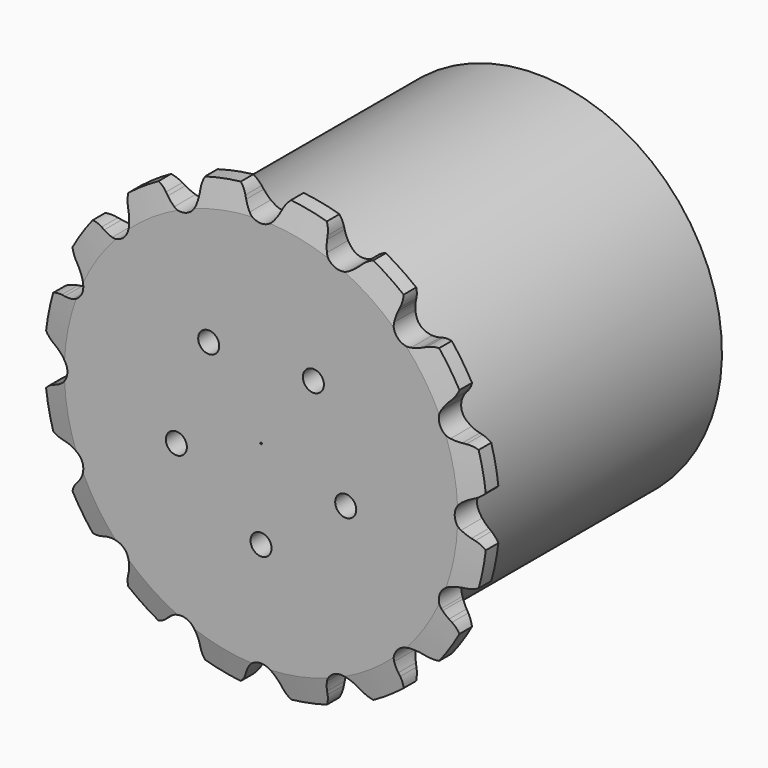
from build123d import *

# Parameters (mm, degrees)
F0_W     = 56.2864
F0_H     = 41.0616607141
F0_W_2   = 7.2136
F0_W_3   = 81.8417824248
F0_H_2   = 4.8172026873
F2_R     = 1.5875
F3_SIZE  = 0.79375
F4_SIZE2 = 6.35
F4_SIZE  = 1.5748
F6_DEPTH = 89.0563824248
F7_R     = 2.7171678614
F8_DEPTH = 25.4


with BuildPart() as f1:
    # F0 (on Right) → F1 (revolve)
    with BuildSketch(Plane.YZ):
        with Locations((13.0365436533, -20.744169643)):
            Rectangle(F0_W, F0_H)
        Polygon((-15.1066563467, -41.275), (-22.3202563467, -41.275), (-22.3202563467, -57.15), (-15.1066563467, -57.15), (-15.1066563467, -47.7999337018), (-15.1066563467, -42.9827310145), align=None)
        with Locations((-18.7134563467, -20.744169643)):
            Rectangle(F0_W_2, F0_H)
        with Locations((25.8142348657, -45.3913323581)):
            Rectangle(F0_W_3, F0_H_2)
    revolve(axis=Axis((0, 2.5358337058, 0), (0, -1, 0)))

    # F2
    f2_edges = [f1.edges().sort_by_distance(p)[0] for p in [
        (0, -15.106656, 41.275),
    ]]
    fillet(f2_edges, radius=F2_R)

    # F3
    f3_edges = [f1.edges().sort_by_distance(p)[0] for p in [
        (0, 41.179744, 41.275),
    ]]
    chamfer(f3_edges, length=F3_SIZE)

    # F4
    f4_edges = [f1.edges().sort_by_distance(p)[0] for p in [
        (0, -15.106656, 57.15),
        (0, -22.320256, 57.15),
    ]]
    f4_side = f1.faces().sort_by_distance((0, -18.713456, 57.15))[0]
    chamfer(f4_edges, length=F4_SIZE, length2=F4_SIZE2, reference=f4_side)

    # F5 (on face) → F6 (intersect, through all)
    with BuildSketch(Plane.XZ.offset(22.3202563467)):
        with BuildLine():
            Line((-4.4568878106, 53.7250493474), (-4.8164154778, 54.5231711732))
            ThreePointArc((-4.8164154778, 54.5231711732), (-7.5838308173, 57.5547145164), (-11.6086612792, 58.3606812994))
            ThreePointArc((-11.6086612792, 58.3606812994), (-15.0186896298, 56.0758291488), (-16.415326608, 52.2160043013))
            Line((-16.415326608, 52.2160043013), (-16.4420588613, 51.3410506002))
            ThreePointArc((-16.4420588613, 51.3410506002), (-16.5648135586, 50.0363656722), (-16.8512367189, 48.7576032821))
            ThreePointArc((-16.8512367189, 48.7576032821), (-19.1389934295, 46.2056175077), (-22.5612081599, 46.3924556705))
            ThreePointArc((-22.5612081599, 46.3924556705), (-23.6679614764, 47.0941454691), (-24.6773137152, 47.9298963501))
            Line((-24.6773137152, 47.9298963501), (-25.314901968, 48.5296794878))
            ThreePointArc((-25.314901968, 48.5296794878), (-29.03178177, 50.2714163336), (-33.0586703905, 49.4757966124))
            ThreePointArc((-33.0586703905, 49.4757966124), (-35.3347507255, 46.059907122), (-35.147984023, 41.9594241138))
            Line((-35.147984023, 41.9594241138), (-34.8378511192, 41.140842307))
            ThreePointArc((-34.8378511192, 41.140842307), (-34.4519803652, 39.8884944167), (-34.22723968, 38.5974626195))
            ThreePointArc((-34.22723968, 38.5974626195), (-35.3642486048, 35.3642486048), (-38.5974626195, 34.22723968))
            ThreePointArc((-38.5974626195, 34.22723968), (-39.8884944167, 34.4519803652), (-41.140842307, 34.8378511192))
            Line((-41.140842307, 34.8378511192), (-41.9594241138, 35.147984023))
            ThreePointArc((-41.9594241138, 35.147984023), (-46.059907122, 35.3347507255), (-49.4757966124, 33.0586703905))
            ThreePointArc((-49.4757966124, 33.0586703905), (-50.2714163336, 29.03178177), (-48.5296794878, 25.314901968))
            Line((-48.5296794878, 25.314901968), (-47.9298963501, 24.6773137152))
            ThreePointArc((-47.9298963501, 24.6773137152), (-47.0941454691, 23.6679614764), (-46.3924556705, 22.5612081599))
            ThreePointArc((-46.3924556705, 22.5612081599), (-46.2056175077, 19.1389934295), (-48.7576032821, 16.8512367189))
            ThreePointArc((-48.7576032821, 16.8512367189), (-50.0363656722, 16.5648135586), (-51.3410506002, 16.4420588613))
            Line((-51.3410506002, 16.4420588613), (-52.2160043013, 16.415326608))
            ThreePointArc((-52.2160043013, 16.415326608), (-56.0758291488, 15.0186896298), (-58.3606812994, 11.6086612792))
            ThreePointArc((-58.3606812994, 11.6086612792), (-57.5547145164, 7.5838308173), (-54.5231711732, 4.8164154778))
            Line((-54.5231711732, 4.8164154778), (-53.7250493474, 4.4568878106))
            ThreePointArc((-53.7250493474, 4.4568878106), (-52.5666538349, 3.8441959519), (-51.4948408338, 3.0902142758))
            ThreePointArc((-51.4948408338, 3.0902142758), (-50.0126, 0), (-51.4948408338, -3.0902142758))
            ThreePointArc((-51.4948408338, -3.0902142758), (-52.5666538349, -3.8441959519), (-53.7250493474, -4.4568878106))
            Line((-53.7250493474, -4.4568878106), (-54.5231711732, -4.8164154778))
            ThreePointArc((-54.5231711732, -4.8164154778), (-57.5547145164, -7.5838308173), (-58.3606812994, -11.6086612792))
            ThreePointArc((-58.3606812994, -11.6086612792), (-56.0758291488, -15.0186896298), (-52.2160043013, -16.415326608))
            Line((-52.2160043013, -16.415326608), (-51.3410506002, -16.4420588613))
            ThreePointArc((-51.3410506002, -16.4420588613), (-50.0363656722, -16.5648135586), (-48.7576032821, -16.8512367189))
            ThreePointArc((-48.7576032821, -16.8512367189), (-46.2056175077, -19.1389934295), (-46.3924556705, -22.5612081599))
            ThreePointArc((-46.3924556705, -22.5612081599), (-46.5188828863, -22.7850262678), (-46.6508225459, -23.0056397591))
            ThreePointArc((-46.6508225459, -23.0056397591), (-46.5184741072, -23.0201940606), (-46.3863235817, -23.0364475373))
            Line((-46.3863235817, -23.0364475373), (-47.9298963501, -24.6773137152))
            Line((-47.9298963501, -24.6773137152), (-48.5296794878, -25.314901968))
            ThreePointArc((-48.5296794878, -25.314901968), (-50.2714163336, -29.03178177), (-49.4757966124, -33.0586703905))
            ThreePointArc((-49.4757966124, -33.0586703905), (-47.9461323111, -34.4716679644), (-46.0520008655, -35.3369431146))
            ThreePointArc((-46.0520008655, -35.3369431146), (-43.9906584062, -35.568512935), (-41.9594241138, -35.147984023))
            Line((-41.9594241138, -35.147984023), (-41.140842307, -34.8378511192))
            ThreePointArc((-41.140842307, -34.8378511192), (-39.8884944167, -34.4519803652), (-38.5974626195, -34.22723968))
            ThreePointArc((-38.5974626195, -34.22723968), (-35.3642486048, -35.3642486048), (-34.22723968, -38.5974626195))
            ThreePointArc((-34.22723968, -38.5974626195), (-34.4519803652, -39.8884944167), (-34.8378511192, -41.140842307))
            Line((-34.8378511192, -41.140842307), (-35.147984023, -41.9594241138))
            ThreePointArc((-35.147984023, -41.9594241138), (-35.3347507255, -46.059907122), (-33.0586703905, -49.4757966124))
            ThreePointArc((-33.0586703905, -49.4757966124), (-29.03178177, -50.2714163336), (-25.314901968, -48.5296794878))
            Line((-25.314901968, -48.5296794878), (-24.6773137152, -47.9298963501))
            ThreePointArc((-24.6773137152, -47.9298963501), (-23.6679614764, -47.0941454691), (-22.5612081599, -46.3924556705))
            ThreePointArc((-22.5612081599, -46.3924556705), (-19.1389934295, -46.2056175077), (-16.8512367189, -48.7576032821))
            ThreePointArc((-16.8512367189, -48.7576032821), (-16.5648135586, -50.0363656722), (-16.4420588613, -51.3410506002))
            Line((-16.4420588613, -51.3410506002), (-16.415326608, -52.2160043013))
            ThreePointArc((-16.415326608, -52.2160043013), (-15.0186896298, -56.0758291488), (-11.6086612792, -58.3606812994))
            ThreePointArc((-11.6086612792, -58.3606812994), (-7.5838308173, -57.5547145164), (-4.8164154778, -54.5231711732))
            Line((-4.8164154778, -54.5231711732), (-4.4568878106, -53.7250493474))
            ThreePointArc((-4.4568878106, -53.7250493474), (-3.8441959519, -52.5666538349), (-3.0902142758, -51.4948408338))
            ThreePointArc((-3.0902142758, -51.4948408338), (0, -50.0126), (3.0902142758, -51.4948408338))
            ThreePointArc((3.0902142758, -51.4948408338), (3.8441959519, -52.5666538349), (4.4568878106, -53.7250493474))
            Line((4.4568878106, -53.7250493474), (4.8164154778, -54.5231711732))
            ThreePointArc((4.8164154778, -54.5231711732), (7.5838308173, -57.5547145164), (11.6086612792, -58.3606812994))
            ThreePointArc((11.6086612792, -58.3606812994), (15.0186896298, -56.0758291488), (16.415326608, -52.2160043013))
            Line((16.415326608, -52.2160043013), (16.4420588613, -51.3410506002))
            ThreePointArc((16.4420588613, -51.3410506002), (16.5648135586, -50.0363656722), (16.8512367189, -48.7576032821))
            ThreePointArc((16.8512367189, -48.7576032821), (19.1389934295, -46.2056175077), (22.5612081599, -46.3924556705))
            ThreePointArc((22.5612081599, -46.3924556705), (23.6679614764, -47.0941454691), (24.6773137152, -47.9298963501))
            Line((24.6773137152, -47.9298963501), (25.314901968, -48.5296794878))
            ThreePointArc((25.314901968, -48.5296794878), (29.03178177, -50.2714163336), (33.0586703905, -49.4757966124))
            ThreePointArc((33.0586703905, -49.4757966124), (35.3347507255, -46.059907122), (35.147984023, -41.9594241138))
            Line((35.147984023, -41.9594241138), (34.8378511192, -41.140842307))
            ThreePointArc((34.8378511192, -41.140842307), (34.4519803652, -39.8884944167), (34.22723968, -38.5974626195))
            ThreePointArc((34.22723968, -38.5974626195), (35.3642486048, -35.3642486048), (38.5974626195, -34.22723968))
            ThreePointArc((38.5974626195, -34.22723968), (39.8884944167, -34.4519803652), (41.140842307, -34.8378511192))
            Line((41.140842307, -34.8378511192), (41.9594241138, -35.147984023))
            ThreePointArc((41.9594241138, -35.147984023), (43.9906584062, -35.568512935), (46.0520008655, -35.3369431146))
            ThreePointArc((46.0520008655, -35.3369431146), (45.7421654487, -33.2859045164), (44.810243592, -31.4327237456))
            Line((44.810243592, -31.4327237456), (44.2988136491, -30.7223027395))
            ThreePointArc((44.2988136491, -30.7223027395), (43.601959637, -29.6124982689), (43.050733188, -28.4236244829))
            ThreePointArc((43.050733188, -28.4236244829), (43.3121821093, -25.0063), (46.1409474638, -23.0712163509))
            ThreePointArc((46.1409474638, -23.0712163509), (46.3954783199, -23.0352659737), (46.6508225459, -23.0056397591))
            ThreePointArc((46.6508225459, -23.0056397591), (46.5188828863, -22.7850262678), (46.3924556705, -22.5612081599))
            ThreePointArc((46.3924556705, -22.5612081599), (46.2056175077, -19.1389934295), (48.7576032821, -16.8512367189))
            ThreePointArc((48.7576032821, -16.8512367189), (50.0363656722, -16.5648135586), (51.3410506002, -16.4420588613))
            Line((51.3410506002, -16.4420588613), (52.2160043013, -16.415326608))
            ThreePointArc((52.2160043013, -16.415326608), (56.0758291488, -15.0186896298), (58.3606812994, -11.6086612792))
            ThreePointArc((58.3606812994, -11.6086612792), (57.5547145164, -7.5838308173), (54.5231711732, -4.8164154778))
            Line((54.5231711732, -4.8164154778), (53.7250493474, -4.4568878106))
            ThreePointArc((53.7250493474, -4.4568878106), (52.5666538349, -3.8441959519), (51.4948408338, -3.0902142758))
            ThreePointArc((51.4948408338, -3.0902142758), (50.0126, 0), (51.4948408338, 3.0902142758))
            ThreePointArc((51.4948408338, 3.0902142758), (52.5666538349, 3.8441959519), (53.7250493474, 4.4568878106))
            Line((53.7250493474, 4.4568878106), (54.5231711732, 4.8164154778))
            ThreePointArc((54.5231711732, 4.8164154778), (57.5547145164, 7.5838308173), (58.3606812994, 11.6086612792))
            ThreePointArc((58.3606812994, 11.6086612792), (56.0758291488, 15.0186896298), (52.2160043013, 16.415326608))
            Line((52.2160043013, 16.415326608), (51.3410506002, 16.4420588613))
            ThreePointArc((51.3410506002, 16.4420588613), (50.0363656722, 16.5648135586), (48.7576032821, 16.8512367189))
            ThreePointArc((48.7576032821, 16.8512367189), (46.2056175077, 19.1389934295), (46.3924556705, 22.5612081599))
            ThreePointArc((46.3924556705, 22.5612081599), (47.0941454691, 23.6679614764), (47.9298963501, 24.6773137152))
            Line((47.9298963501, 24.6773137152), (48.5296794878, 25.314901968))
            ThreePointArc((48.5296794878, 25.314901968), (50.2714163336, 29.03178177), (49.4757966124, 33.0586703905))
            ThreePointArc((49.4757966124, 33.0586703905), (46.059907122, 35.3347507255), (41.9594241138, 35.147984023))
            Line((41.9594241138, 35.147984023), (41.140842307, 34.8378511192))
            ThreePointArc((41.140842307, 34.8378511192), (39.8884944167, 34.4519803652), (38.5974626195, 34.22723968))
            ThreePointArc((38.5974626195, 34.22723968), (35.3642486048, 35.3642486048), (34.22723968, 38.5974626195))
            ThreePointArc((34.22723968, 38.5974626195), (34.4519803652, 39.8884944167), (34.8378511192, 41.140842307))
            Line((34.8378511192, 41.140842307), (35.147984023, 41.9594241138))
            ThreePointArc((35.147984023, 41.9594241138), (35.3347507255, 46.059907122), (33.0586703905, 49.4757966124))
            ThreePointArc((33.0586703905, 49.4757966124), (29.03178177, 50.2714163336), (25.314901968, 48.5296794878))
            Line((25.314901968, 48.5296794878), (24.6773137152, 47.9298963501))
            ThreePointArc((24.6773137152, 47.9298963501), (23.6679614764, 47.0941454691), (22.5612081599, 46.3924556705))
            ThreePointArc((22.5612081599, 46.3924556705), (19.1389934295, 46.2056175077), (16.8512367189, 48.7576032821))
            ThreePointArc((16.8512367189, 48.7576032821), (16.5648135586, 50.0363656722), (16.4420588613, 51.3410506002))
            Line((16.4420588613, 51.3410506002), (16.415326608, 52.2160043013))
            ThreePointArc((16.415326608, 52.2160043013), (15.0186896298, 56.0758291488), (11.6086612792, 58.3606812994))
            ThreePointArc((11.6086612792, 58.3606812994), (7.5838308173, 57.5547145164), (4.8164154778, 54.5231711732))
            Line((4.8164154778, 54.5231711732), (4.4568878106, 53.7250493474))
            ThreePointArc((4.4568878106, 53.7250493474), (3.8441959519, 52.5666538349), (3.0902142758, 51.4948408338))
            ThreePointArc((3.0902142758, 51.4948408338), (0, 50.0126), (-3.0902142758, 51.4948408338))
            ThreePointArc((-3.0902142758, 51.4948408338), (-3.8441959519, 52.5666538349), (-4.4568878106, 53.7250493474))
        make_face()
        with BuildLine():
            ThreePointArc((-46.3863235817, -23.0364475373), (-46.5184741072, -23.0201940606), (-46.6508225459, -23.0056397591))
            ThreePointArc((-46.6508225459, -23.0056397591), (-47.2478075075, -23.8740351629), (-47.9298963501, -24.6773137152))
            Line((-47.9298963501, -24.6773137152), (-46.3863235817, -23.0364475373))
        make_face()
        with BuildLine():
            ThreePointArc((47.9298963501, -24.6773137152), (47.2478075075, -23.8740351629), (46.6508225459, -23.0056397591))
            ThreePointArc((46.6508225459, -23.0056397591), (46.3954783199, -23.0352659737), (46.1409474638, -23.0712163509))
            ThreePointArc((46.1409474638, -23.0712163509), (43.3121821093, -25.0063), (43.050733188, -28.4236244829))
            ThreePointArc((43.050733188, -28.4236244829), (43.601959637, -29.6124982689), (44.2988136491, -30.7223027395))
            Line((44.2988136491, -30.7223027395), (44.810243592, -31.4327237456))
            ThreePointArc((44.810243592, -31.4327237456), (45.7421654487, -33.2859045164), (46.0520008655, -35.3369431146))
            ThreePointArc((46.0520008655, -35.3369431146), (47.9461323111, -34.4716679644), (49.4757966124, -33.0586703905))
            ThreePointArc((49.4757966124, -33.0586703905), (50.2714163336, -29.03178177), (48.5296794878, -25.314901968))
            Line((48.5296794878, -25.314901968), (47.9298963501, -24.6773137152))
        make_face()
    extrude(amount=-F6_DEPTH, mode=Mode.INTERSECT)

    # F7 (on face) → F8 (cut)
    with BuildSketch(Plane.XZ.offset(22.3202563467)):
        with Locations((0, -22.9969918728)):
            Circle(F7_R)
        with Locations((21.8714389758, -7.1064613082)):
            Circle(F7_R)
        with Locations((13.5172926699, 18.6049572446)):
            Circle(F7_R)
        with Locations((-13.5172926699, 18.6049572446)):
            Circle(F7_R)
        with Locations((-21.8714389758, -7.1064613082)):
            Circle(F7_R)
    extrude(amount=-F8_DEPTH, mode=Mode.SUBTRACT)


solid = f1.part
